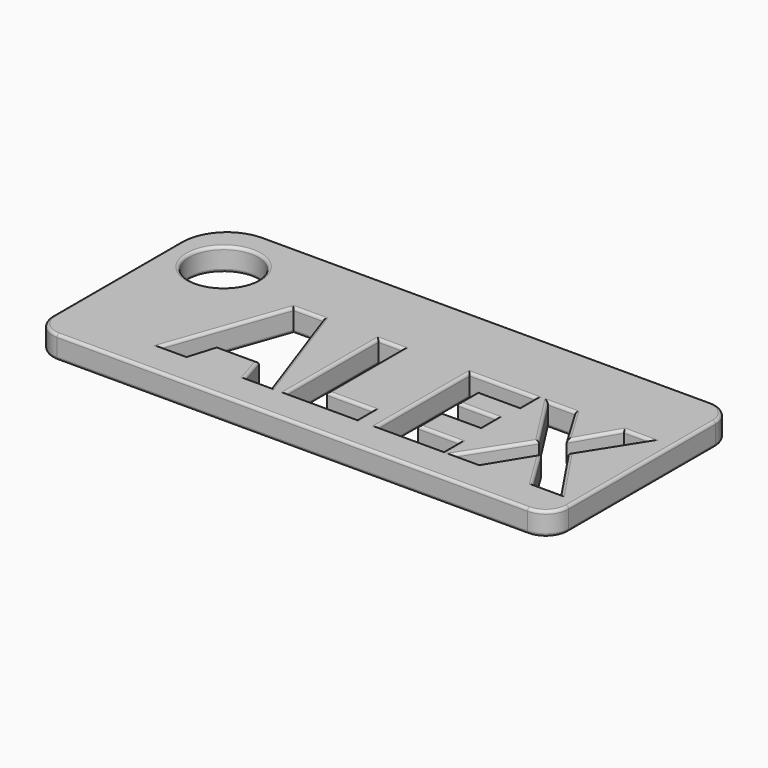
from build123d import *

# Parameters (mm, degrees)
F0_R     = 3
F1_DEPTH = 2
F2_R     = 0.25


with BuildPart() as f1:
    # F0 (on Top) → F1 (new body)
    with BuildSketch(Plane.XY):
        with BuildLine():
            Line((43, 0), (4, 0))
            ThreePointArc((4, 0), (1.1715728753, -1.1715728753), (0, -4))
            Line((0, -4), (0, -18))
            ThreePointArc((0, -18), (0.5857864376, -19.4142135624), (2, -20))
            Line((2, -20), (43, -20))
            ThreePointArc((43, -20), (44.4142135624, -19.4142135624), (45, -18))
            Line((45, -18), (45, -2))
            ThreePointArc((45, -2), (44.4142135624, -0.5857864376), (43, 0))
        make_face()
        Polygon((8.5444385186, -16.9399480801), (12.0730569637, -6.9031834019), (12.0925729076, -6.847672459), (14.6970311324, -6.847672459), (18.2583637895, -16.9399480801), (15.961865152, -16.9399480801), (15.233760699, -14.5466621438), (11.569041609, -14.5466621438), (10.840937156, -16.9399480801), align=None, mode=Mode.SUBTRACT)
        Polygon((25.7307832064, -16.9399480801), (19.5231978091, -16.9399480801), (19.5231978091, -6.8894669744), (21.6547180961, -6.8894669744), (21.6547180961, -15.1801790093), (25.7307832064, -15.1801790093), align=None, mode=Mode.SUBTRACT)
        Polygon((33.2647945408, -15.1801790093), (33.2647945408, -16.9399480801), (27.4773540092, -16.9399480801), (27.4773540092, -6.8894669744), (33.2647945408, -6.8894669744), (33.2647945408, -8.6360377772), (29.6088742962, -8.6360377772), (29.6088742962, -10.8423482498), (33.0118277369, -10.8423482498), (33.0118277369, -12.5889190525), (29.6088742962, -12.5889190525), (29.6088742962, -15.1801790093), align=None, mode=Mode.SUBTRACT)
        Polygon((40.0904988242, -11.8740128675), (43.4868531308, -16.9399480801), (41.0539723904, -16.9399480801), (38.7156792376, -13.1388468872), (36.3795857961, -16.9399480801), (34.0962854267, -16.9399480801), (37.4310478159, -11.7574281666), (34.3096574266, -6.8894669744), (36.6611488474, -6.8894669744), (38.8256648045, -10.505792415), (40.9505859575, -6.8894669744), (43.2448848836, -6.8894669744), align=None, mode=Mode.SUBTRACT)
        with Locations((4.6345947038, -5.1450321897)):
            Circle(F0_R, mode=Mode.SUBTRACT)
    extrude(amount=F1_DEPTH)

    # F2
    f2_edges = [f1.edges().sort_by_distance(p)[0] for p in [
        (23.5, 0, 2),
        (1.171573, -1.171573, 2),
        (0, -11, 2),
        (0.585786, -19.414214, 2),
        (22.5, -20, 2),
        (44.414214, -19.414214, 2),
        (45, -10, 2),
        (44.414214, -0.585786, 2),
        (10.318506, -11.89381, 2),
        (13.394802, -6.847672, 2),
        (16.477697, -11.89381, 2),
        (17.110114, -16.939948, 2),
        (15.597813, -15.743305, 2),
        (13.401401, -14.546662, 2),
        (11.204989, -15.743305, 2),
        (9.692688, -16.939948, 2),
        (22.626991, -16.939948, 2),
        (19.523198, -11.914708, 2),
        (20.588958, -6.889467, 2),
        (21.654718, -11.034823, 2),
        (23.692751, -15.180179, 2),
        (25.730783, -16.060064, 2),
        (33.264795, -16.060064, 2),
        (30.371074, -16.939948, 2),
        (27.477354, -11.914708, 2),
        (30.371074, -6.889467, 2),
        (33.264795, -7.762752, 2),
        (31.436834, -8.636038, 2),
        (29.608874, -9.739193, 2),
        (31.310351, -10.842348, 2),
        (33.011828, -11.715634, 2),
        (31.310351, -12.588919, 2),
        (29.608874, -13.884549, 2),
        (31.436834, -15.180179, 2),
        (41.788676, -14.40698, 2),
        (42.270413, -16.939948, 2),
        (39.884826, -15.039397, 2),
        (37.547633, -15.039397, 2),
        (35.237936, -16.939948, 2),
        (35.763667, -14.348688, 2),
        (35.870353, -9.323448, 2),
        (35.485403, -6.889467, 2),
        (37.743407, -8.69763, 2),
        (39.888125, -8.69763, 2),
        (42.097735, -6.889467, 2),
        (41.667692, -9.38174, 2),
        (1.634595, -5.145032, 2),
        (23.5, 0, 0),
        (1.171573, -1.171573, 0),
        (0, -11, 0),
        (0.585786, -19.414214, 0),
        (22.5, -20, 0),
        (44.414214, -19.414214, 0),
        (45, -10, 0),
        (44.414214, -0.585786, 0),
        (10.318506, -11.89381, 0),
        (13.394802, -6.847672, 0),
        (16.477697, -11.89381, 0),
        (17.110114, -16.939948, 0),
        (15.597813, -15.743305, 0),
        (13.401401, -14.546662, 0),
        (11.204989, -15.743305, 0),
        (9.692688, -16.939948, 0),
        (22.626991, -16.939948, 0),
        (19.523198, -11.914708, 0),
        (20.588958, -6.889467, 0),
        (21.654718, -11.034823, 0),
        (23.692751, -15.180179, 0),
        (25.730783, -16.060064, 0),
        (33.264795, -16.060064, 0),
        (30.371074, -16.939948, 0),
        (27.477354, -11.914708, 0),
        (30.371074, -6.889467, 0),
        (33.264795, -7.762752, 0),
        (31.436834, -8.636038, 0),
        (29.608874, -9.739193, 0),
        (31.310351, -10.842348, 0),
        (33.011828, -11.715634, 0),
        (31.310351, -12.588919, 0),
        (29.608874, -13.884549, 0),
        (31.436834, -15.180179, 0),
        (41.788676, -14.40698, 0),
        (42.270413, -16.939948, 0),
        (39.884826, -15.039397, 0),
        (37.547633, -15.039397, 0),
        (35.237936, -16.939948, 0),
        (35.763667, -14.348688, 0),
        (35.870353, -9.323448, 0),
        (35.485403, -6.889467, 0),
        (37.743407, -8.69763, 0),
        (39.888125, -8.69763, 0),
        (42.097735, -6.889467, 0),
        (41.667692, -9.38174, 0),
        (1.634595, -5.145032, 0),
    ]]
    fillet(f2_edges, radius=F2_R)


solid = f1.part
